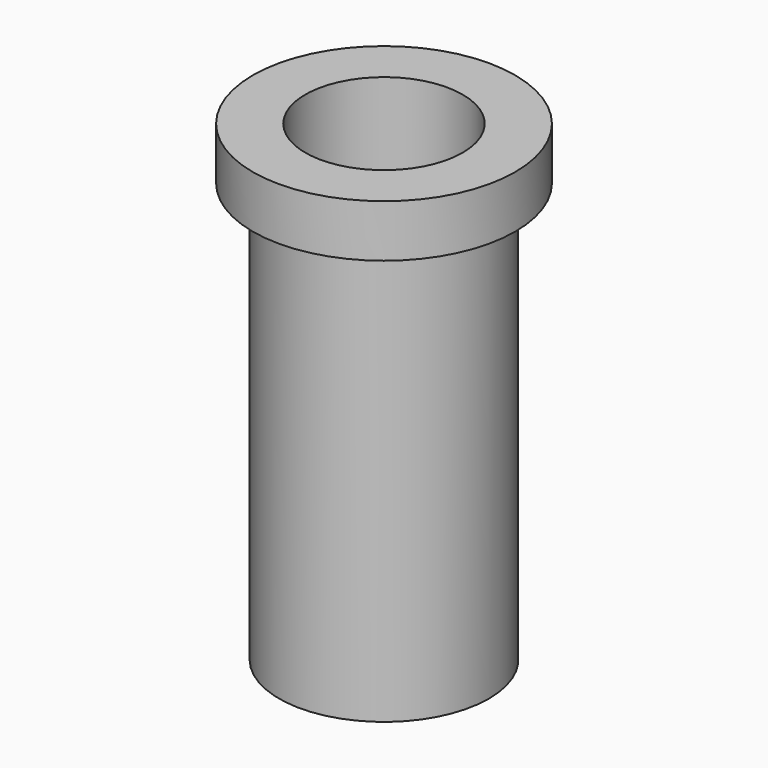
from build123d import *

# Parameters (mm, degrees)
F0_R     = 15.875
F0_R_2   = 9.525
F1_DEPTH = 57.15
F2_R     = 22.359841
F2_R_2   = 12.7
F3_DEPTH = 50.8


with BuildPart() as f1:
    # F0 (on Top) → F1 (new body)
    with BuildSketch(Plane.XY):
        Circle(F0_R)
        Circle(F0_R_2, mode=Mode.SUBTRACT)
    extrude(amount=F1_DEPTH)

    # F2 (on face) → F3 (cut)
    with BuildSketch(Plane(origin=(0, 0, 0), x_dir=(1, 0, 0), z_dir=(0, 0, -1))):
        Circle(F2_R)
        Circle(F2_R_2, mode=Mode.SUBTRACT)
    extrude(amount=-F3_DEPTH, mode=Mode.SUBTRACT)


solid = f1.part
